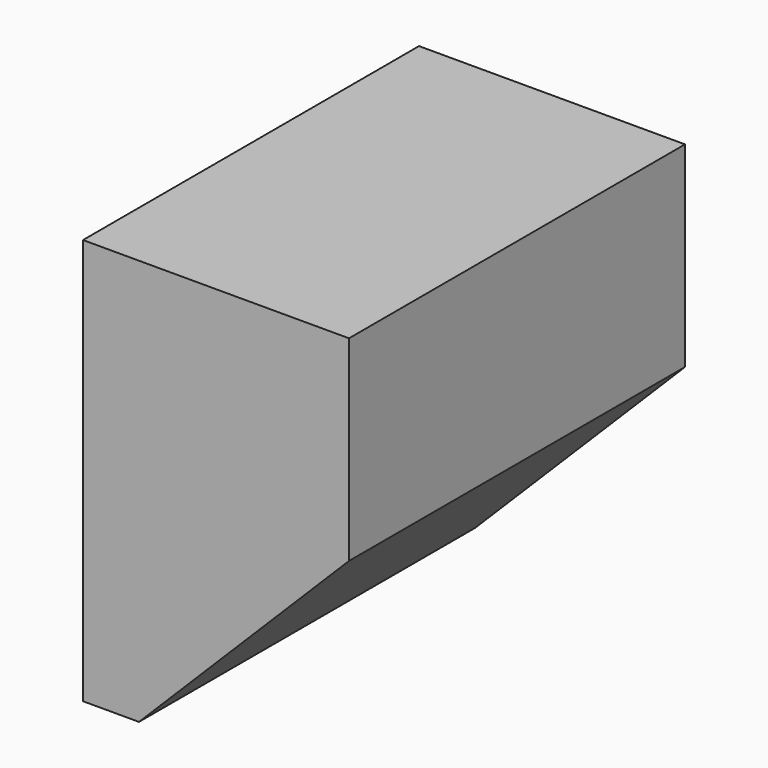
from build123d import *

# Parameters (mm, degrees)
BOX112015002017004005_W     = 19
BOX112015002017004005_H     = 30
BOX112015002017004005_DEPTH = 29
CHAMFER005_SIZE             = 15


with BuildPart() as chamfer005:
    # Box112015002017004005 → Box112015002017004005 (new body)
    with BuildSketch(Plane(origin=(-47, -15, -15), x_dir=(1, 0, 0), z_dir=(0, 0, 1))):
        with Locations((9.5, 15)):
            Rectangle(BOX112015002017004005_W, BOX112015002017004005_H)
    extrude(amount=BOX112015002017004005_DEPTH)

    # Chamfer005
    chamfer005_edges = [chamfer005.edges().sort_by_distance(p)[0] for p in [
        (-28, 0, 14),
    ]]
    chamfer(chamfer005_edges, length=CHAMFER005_SIZE)


with BuildPart() as chamfer005_1:
    # Chamfer005 placement: moved
    add(chamfer005.part.moved(Location((0, 0, 6))))


with BuildPart() as part_mirroring005:
    # Part__Mirroring005: instance of Chamfer005
    add(chamfer005_1.part.mirror(Plane(origin=(0, 0, 20), x_dir=(0, 1, 0), z_dir=(0, 0, 1))))


solid = part_mirroring005.part
